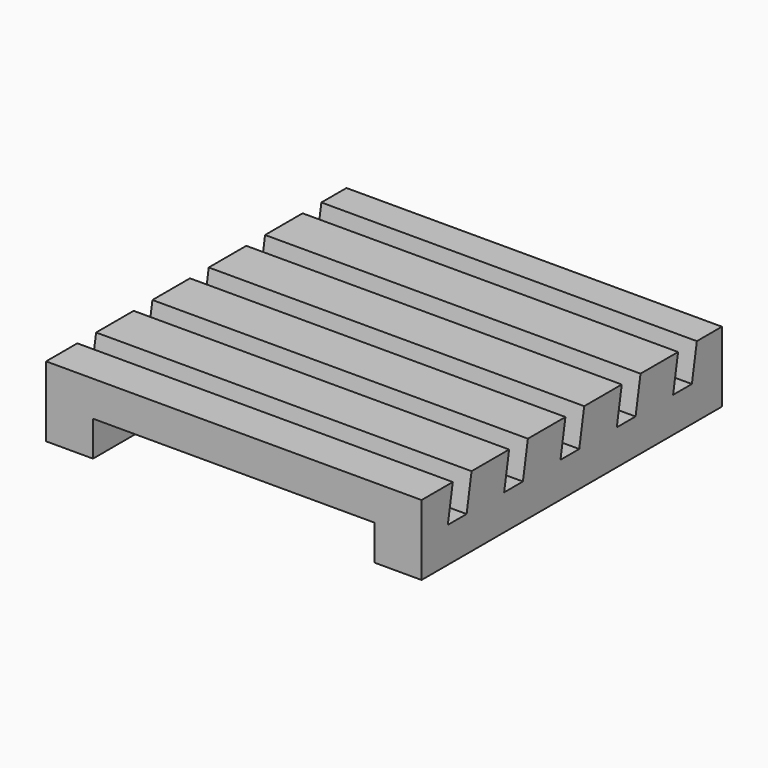
from build123d import *

# Parameters (mm, degrees)
F0_W     = 80
F0_H     = 80
F1_DEPTH = 15
F3_DEPTH = 111
F4_W     = 60
F4_H     = 7.5
F5_DEPTH = 111


with BuildPart() as f1:
    # F0 (on Top) → F1 (new body)
    with BuildSketch(Plane.XY):
        Rectangle(F0_W, F0_H)
    extrude(amount=F1_DEPTH)

    # F2 (on face) → F3 (cut)
    with BuildSketch(Plane.YZ.offset(40)):
        Polygon((-26.677548, 15), (-31.677548, 15), (-33, 7.5), (-28, 7.5), align=None)
        Polygon((-11.677548, 15), (-16.677548, 15), (-18, 7.5), (-13, 7.5), align=None)
        Polygon((3.322452, 15), (-1.677548, 15), (-3, 7.5), (2, 7.5), align=None)
        Polygon((18.322452, 15), (13.322452, 15), (12, 7.5), (17, 7.5), align=None)
        Polygon((32, 7.5), (33.322452, 15), (28.322452, 15), (27, 7.5), align=None)
    extrude(amount=-F3_DEPTH, mode=Mode.SUBTRACT)

    # F4 (on face) → F5 (cut)
    with BuildSketch(Plane.XZ.offset(40)):
        with Locations((0, 3.75)):
            Rectangle(F4_W, F4_H)
    extrude(amount=-F5_DEPTH, mode=Mode.SUBTRACT)


solid = f1.part
